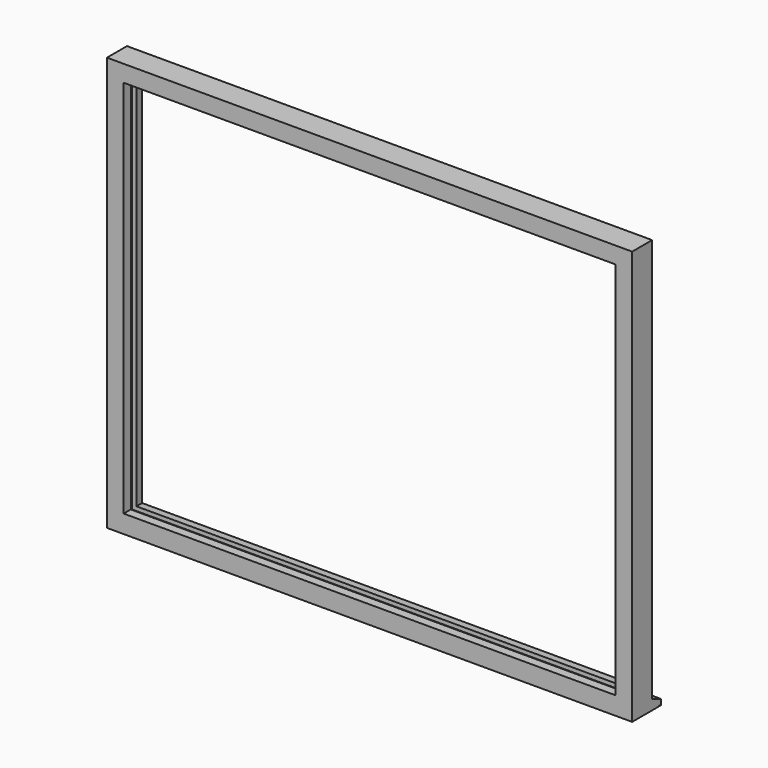
from build123d import *

# Parameters (mm, degrees)
F1_DEPTH = 1890
F3_DEPTH = 1490


with BuildPart() as f1:
    # F0 (on Right) → F1 (new body)
    with BuildSketch(Plane.YZ):
        with BuildLine():
            Line((0, 40), (0, 0))
            Line((0, 0), (119, 0))
            ThreePointArc((119, 0), (122, 3), (125, 0))
            Line((125, 0), (130, 0))
            Line((130, 0), (130, 20))
            Line((130, 20), (90, 35.704561))
            Line((90, 35.704561), (90, 50))
            Line((90, 50), (87, 50))
            Line((87, 50), (57, 50))
            Line((57, 50), (32, 50))
            Line((32, 50), (32, 65))
            Line((32, 65), (0, 65))
            Line((0, 65), (0, 40))
        make_face()
        Polygon((57, 65), (57, 50), (87, 50), (87, 62), align=None)
        Polygon((87, 1433), (87, 1445), (57, 1445), (57, 1430), align=None)
        Polygon((90, 1490), (0, 1490), (0, 1430), (32, 1430), (32, 1445), (57, 1445), (87, 1445), (90, 1445), align=None)
    extrude(amount=-F1_DEPTH)

    # F2 (on face) → F3 (join)
    with BuildSketch(Plane.XY.offset(1490)):
        Polygon((-60, 0), (0, 0), (0, 90), (-45, 90), (-45, 87), (-45, 57), (-45, 32), (-60, 32), align=None)
        Polygon((-45, 57), (-45, 87), (-57, 87), (-60, 57), align=None)
        Polygon((-1890, 90), (-1890, 0), (-1830, 0), (-1830, 32), (-1845, 32), (-1845, 57), (-1845, 87), (-1845, 90), align=None)
        Polygon((-1833, 87), (-1845, 87), (-1845, 57), (-1830, 57), align=None)
    extrude(amount=-F3_DEPTH)


solid = f1.part
